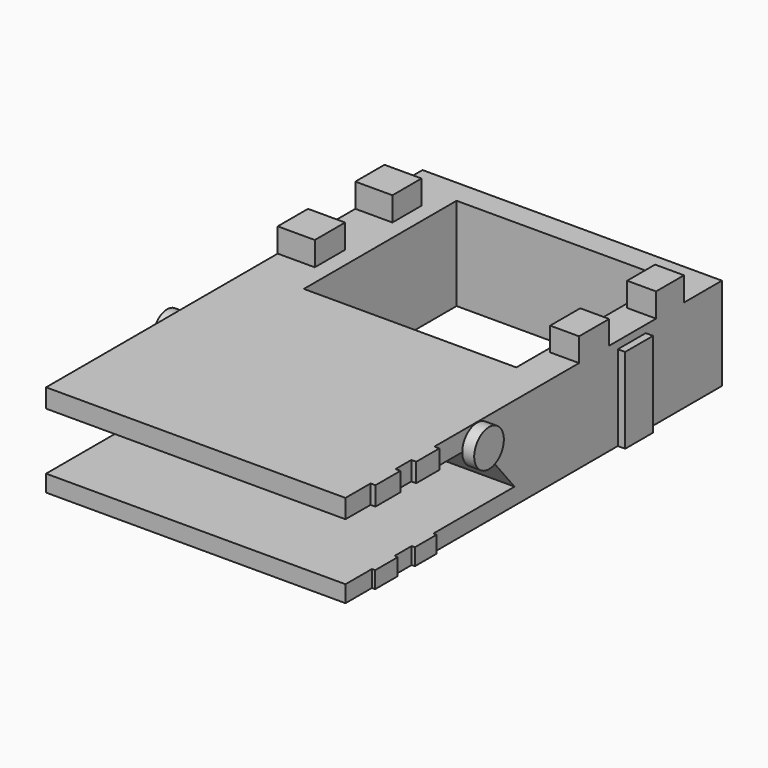
from build123d import *

# Parameters (mm, degrees)
F0_W       = 82.0303186774
F0_H       = 128.9077922702
F0_W_2     = 61.4851098508
F0_H_2     = 52.307818085
F1_DEPTH   = 25.4
F3_DEPTH   = 103.3353582025
F4_W       = 9.9767372012
F4_H       = 6.5656021893
F4_W_2     = 10.380640626
F4_H_2     = 6.5844875485
F5_DEPTH   = 10.1564340293
F6_W       = 10.2968784049
F6_H       = 6.4595692515
F7_W       = 9.5716901124
F7_H       = 6.5711081684
F8_DEPTH   = 7.9249968985
F9_W       = 8.5524487155
F9_H       = 5.1620816675
F9_W_2     = 7.9160258174
F9_H_2     = 5.1903103754
F10_DEPTH  = 1.3433820568
F11_W      = 7.7443979681
F11_H      = 4.5824625995
F11_W_2    = 7.4055045843
F12_DEPTH  = 0.893893186
F14_DEPTH  = 2.8803441674
F15_R      = 5.0749608974
F1_FACE2_W = 52.307818085
F1_FACE2_H = 25.4
F16_DEPTH  = 3.2730977982
F17_W      = 2.0163990557
F17_H      = 9.5695778728
F18_DEPTH  = 23.3533121645


with BuildPart() as f1:
    # F0 (on Top) → F1 (new body)
    with BuildSketch(Plane.XY):
        with Locations((8.9795850217, -5.5929608643)):
            Rectangle(F0_W, F0_H)
        with Locations((10.0128157064, 26.1539090425)):
            Rectangle(F0_W_2, F0_H_2, mode=Mode.SUBTRACT)
    extrude(amount=F1_DEPTH)

    # F2 (on face) → F3 (cut)
    with BuildSketch(Plane(origin=(-32.035574317, 0, 0), x_dir=(0, -1, 0), z_dir=(-1, 0, 0))):
        Polygon((70.0468569994, 4.5824625995), (70.0468569994, 20.2553160489), (24.9904096127, 20.1640632004), (12.1657857671, 4.5824625995), align=None)
    extrude(amount=-F3_DEPTH, mode=Mode.SUBTRACT)

    # F4 (on face) → F5 (join)
    with BuildSketch(Plane(origin=(-32.035574317, 0, 0), x_dir=(0, -1, 0), z_dir=(-1, 0, 0))):
        with Locations((-40.8467017114, 28.6828010947)):
            Rectangle(F4_W, F4_H)
        with Locations((-14.4690144807, 28.6922437742)):
            Rectangle(F4_W_2, F4_H_2)
    extrude(amount=-F5_DEPTH)

    # F6 (on face) + F7 (on face) → F8 (join)
    with BuildSketch(Plane.YZ.offset(49.9947443604)):
        with Locations((15.0959282182, 28.6297846258)):
            Rectangle(F6_W, F6_H)
    with BuildSketch(Plane.YZ.offset(49.9947443604)):
        with Locations((41.0959366709, 28.6855540842)):
            Rectangle(F7_W, F7_H)
    extrude(amount=-F8_DEPTH)

    # F9 (on face) → F10 (join)
    with BuildSketch(Plane.YZ.offset(49.9947443604)):
        with Locations((-57.180442793, 22.8189591662)):
            Rectangle(F9_W, F9_H)
        with Locations((-43.5606203973, 22.8048448123)):
            Rectangle(F9_W_2, F9_H_2)
    extrude(amount=F10_DEPTH)

    # F11 (on face) → F12 (join)
    with BuildSketch(Plane.YZ.offset(49.9947443604)):
        with Locations((-57.1476463228, 2.2912312998)):
            Rectangle(F11_W, F11_H)
        with Locations((-43.6765104532, 2.2912312998)):
            Rectangle(F11_W_2, F11_H)
    extrude(amount=F12_DEPTH)

    # F13 (on face) → F14 (join)
    with BuildSketch(Plane(origin=(-32.035574317, 0, 0), x_dir=(0, -1, 0), z_dir=(-1, 0, 0))):
        with BuildLine():
            Line((24.9904096127, 20.1640632004), (29.7919796658, 20.1737878229))
            ThreePointArc((29.7919796658, 20.1737878229), (22.9361613671, 24.5040209985), (21.9390430586, 16.4567283495))
            Line((21.9390430586, 16.4567283495), (24.9904096127, 20.1640632004))
        make_face()
        with BuildLine():
            ThreePointArc((21.9390430586, 16.4567283495), (27.0402619522, 15.8220273956), (29.7919895134, 20.1640632004))
            ThreePointArc((29.7919895134, 20.1640632004), (29.7919870515, 20.1689255141), (29.7919796658, 20.1737878229))
            Line((29.7919796658, 20.1737878229), (24.9904096127, 20.1640632004))
            Line((24.9904096127, 20.1640632004), (21.9390430586, 16.4567283495))
        make_face()
    extrude(amount=F14_DEPTH)

    # F15 (on face) + F1_face2 (on face) → F16 (join)
    with BuildSketch(Plane.YZ.offset(49.9947443604)):
        with Locations((-24.9904096127, 20.1640632004)):
            Circle(F15_R)
    with BuildSketch(Plane(origin=(-20.729739219, 26.1539090425, 12.7), x_dir=(0, 1, 0), z_dir=(1, 0, 0))):
        Rectangle(F1_FACE2_W, F1_FACE2_H)
    extrude(amount=F16_DEPTH)

    # F17 (on face) → F18 (join)
    with BuildSketch(Plane(origin=(0, 0, 0), x_dir=(1, 0, 0), z_dir=(0, 0, -1))):
        with Locations((51.0029438883, -27.9941596091)):
            Rectangle(F17_W, F17_H)
    extrude(amount=-F18_DEPTH)


solid = f1.part
